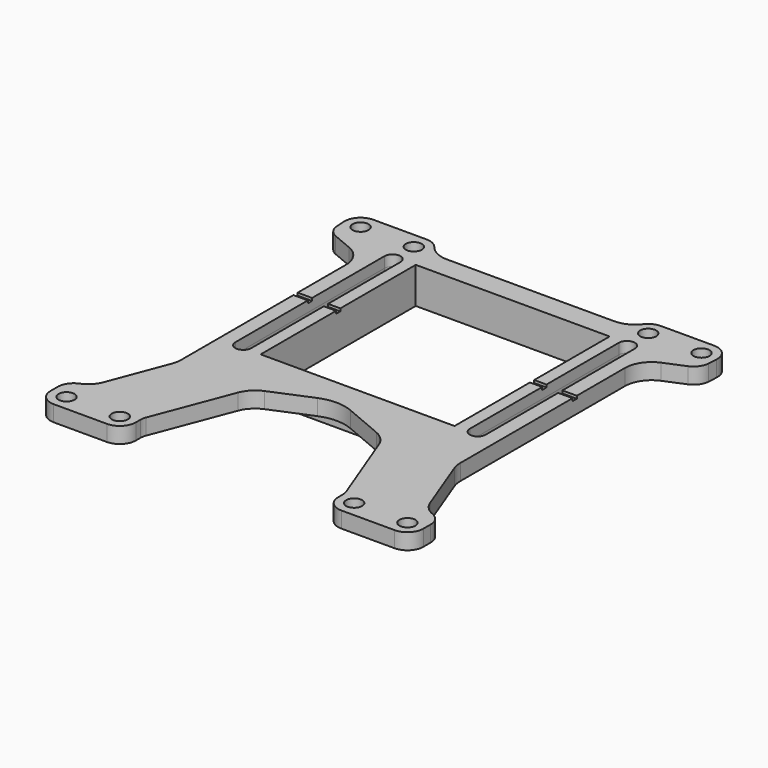
from build123d import *

# Parameters (mm, degrees)
F1_W          = 38.4
F1_H          = 38.4
F1_W_2        = 36.4
F1_H_2        = 36.4
F2_DEPTH      = 4.8
F3_R          = 1.5
F3_W          = 38.4
F3_H          = 38.4
F3_W_2        = 36.4
F3_H_2        = 36.4
F4_DEPTH      = 2
F4_DEPTH_BACK = 1
F5_R          = 0.6
F6_W          = 8
F6_H          = 1
F7_DEPTH      = 0.5


with BuildPart() as f2:
    # F1 (on Top) → F2 (new body)
    with BuildSketch(Plane.XY):
        Rectangle(F1_W, F1_H)
        Rectangle(F1_W_2, F1_H_2, mode=Mode.SUBTRACT)
    extrude(amount=F2_DEPTH)

    # F3 (on face) → F4 (join, two sides)
    with BuildSketch(Plane.XY.offset(4.8)) as f4_sk:
        with BuildLine():
            ThreePointArc((-35, -46.5), (-34.12132, -48.62132), (-32, -49.5))
            Line((-32, -49.5), (-22, -49.5))
            ThreePointArc((-22, -49.5), (-19.87868, -48.62132), (-19, -46.5))
            Line((-19, -46.5), (-19, -45.438493))
            ThreePointArc((-19, -45.438493), (-18.950318, -44.894781), (-18.802918, -44.369078))
            Line((-18.802918, -44.369078), (-13.230511, -29.763898))
            ThreePointArc((-13.230511, -29.763898), (-12.151972, -28.06913), (-10.493455, -26.935637))
            Line((-10.493455, -26.935637), (-3.057386, -23.81569))
            ThreePointArc((-3.057386, -23.81569), (0.049323, -23.192689), (3.154219, -23.824657))
            Line((3.154219, -23.824657), (10.503716, -26.933267))
            ThreePointArc((10.503716, -26.933267), (12.153945, -28.066345), (13.227468, -29.755923))
            Line((13.227468, -29.755923), (18.802918, -44.369078))
            ThreePointArc((18.802918, -44.369078), (18.950318, -44.894781), (19, -45.438493))
            Line((19, -45.438493), (19, -46.5))
            ThreePointArc((19, -46.5), (19.87868, -48.62132), (22, -49.5))
            Line((22, -49.5), (32, -49.5))
            ThreePointArc((32, -49.5), (34.12132, -48.62132), (35, -46.5))
            Line((35, -46.5), (35, -44.801084))
            ThreePointArc((35, -44.801084), (34.484786, -43.120061), (33.116107, -42.016429))
            ThreePointArc((33.116107, -42.016429), (31.618403, -41.017341), (30.649398, -39.5))
            Line((30.649398, -39.5), (26.524716, -28.620354))
            ThreePointArc((26.524716, -28.620354), (26.281849, -27.748859), (26.2, -26.847865))
            Line((26.2, -26.847865), (26.2, 11.797695))
            ThreePointArc((26.2, 11.797695), (27.038254, 14.568952), (29.271947, 16.411003))
            Line((29.271947, 16.411003), (33.054434, 17.991828))
            ThreePointArc((33.054434, 17.991828), (34.344715, 19.024405), (34.892422, 20.58359))
            Line((34.892422, 20.58359), (34.99482, 22.323777))
            ThreePointArc((34.99482, 22.323777), (34.18231, 24.558524), (31.99876, 25.5))
            Line((31.99876, 25.5), (21.997216, 25.495866))
            ThreePointArc((21.997216, 25.495866), (20.678268, 25.189768), (19.628246, 24.334917))
            ThreePointArc((19.628246, 24.334917), (17.87728, 22.90971), (15.677896, 22.4))
            Line((15.677896, 22.4), (-15.677896, 22.4))
            ThreePointArc((-15.677896, 22.4), (-17.87728, 22.90971), (-19.628246, 24.334917))
            ThreePointArc((-19.628246, 24.334917), (-20.678268, 25.189768), (-21.997216, 25.495866))
            Line((-21.997216, 25.495866), (-31.99876, 25.5))
            ThreePointArc((-31.99876, 25.5), (-34.18231, 24.558524), (-34.99482, 22.323777))
            Line((-34.99482, 22.323777), (-34.892422, 20.58359))
            ThreePointArc((-34.892422, 20.58359), (-34.344715, 19.024405), (-33.054434, 17.991828))
            Line((-33.054434, 17.991828), (-29.271947, 16.411003))
            ThreePointArc((-29.271947, 16.411003), (-27.038254, 14.568952), (-26.2, 11.797695))
            Line((-26.2, 11.797695), (-26.2, -26.847865))
            ThreePointArc((-26.2, -26.847865), (-26.281849, -27.748859), (-26.524716, -28.620354))
            Line((-26.524716, -28.620354), (-30.649398, -39.5))
            ThreePointArc((-30.649398, -39.5), (-31.618403, -41.017341), (-33.116107, -42.016429))
            ThreePointArc((-33.116107, -42.016429), (-34.484786, -43.120061), (-35, -44.801084))
            Line((-35, -44.801084), (-35, -46.5))
        make_face()
        with Locations((-32, -46.5)):
            Circle(F3_R, mode=Mode.SUBTRACT)
        with Locations((-22, -46.5)):
            Circle(F3_R, mode=Mode.SUBTRACT)
        with Locations((22, -46.5)):
            Circle(F3_R, mode=Mode.SUBTRACT)
        with Locations((32, -46.5)):
            Circle(F3_R, mode=Mode.SUBTRACT)
        with BuildLine():
            ThreePointArc((-20.5, -17.5), (-22, -19), (-23.5, -17.5))
            Line((-23.5, -17.5), (-23.5, 17.5))
            ThreePointArc((-23.5, 17.5), (-22, 19), (-20.5, 17.5))
            Line((-20.5, 17.5), (-20.5, -17.5))
        make_face(mode=Mode.SUBTRACT)
        with Locations((-32, 22.5)):
            Circle(F3_R, mode=Mode.SUBTRACT)
        with Locations((-21.998456, 22.495866)):
            Circle(F3_R, mode=Mode.SUBTRACT)
        Rectangle(F3_W, F3_H, mode=Mode.SUBTRACT)
        with BuildLine():
            ThreePointArc((20.5, 17.5), (22, 19), (23.5, 17.5))
            Line((23.5, 17.5), (23.5, -17.5))
            ThreePointArc((23.5, -17.5), (22, -19), (20.5, -17.5))
            Line((20.5, -17.5), (20.5, 17.5))
        make_face(mode=Mode.SUBTRACT)
        with Locations((22, 22.5)):
            Circle(F3_R, mode=Mode.SUBTRACT)
        with Locations((32, 22.5)):
            Circle(F3_R, mode=Mode.SUBTRACT)
        Rectangle(F3_W, F3_H)
        Rectangle(F3_W_2, F3_H_2, mode=Mode.SUBTRACT)
    extrude(amount=F4_DEPTH)
    extrude(f4_sk.sketch, amount=-F4_DEPTH_BACK)

    # F5
    f5_edges = [f2.edges().sort_by_distance(p)[0] for p in [
        (-19.2, -19.2, 1.9),
        (19.2, -19.2, 1.9),
        (19.2, 19.2, 1.9),
        (-19.2, 19.2, 1.9),
    ]]
    fillet(f5_edges, radius=F5_R)

    # F6 (on face) → F7 (cut)
    with BuildSketch(Plane.XY.offset(6.8)):
        with Locations((-22.2, 0)):
            Rectangle(F6_W, F6_H)
        with Locations((-22.2, 0)):
            Rectangle(F6_W, F6_H)
        with Locations((22.2, 0)):
            Rectangle(F6_W, F6_H)
        with Locations((22.2, 0)):
            Rectangle(F6_W, F6_H)
    extrude(amount=-F7_DEPTH, mode=Mode.SUBTRACT)


solid = f2.part
